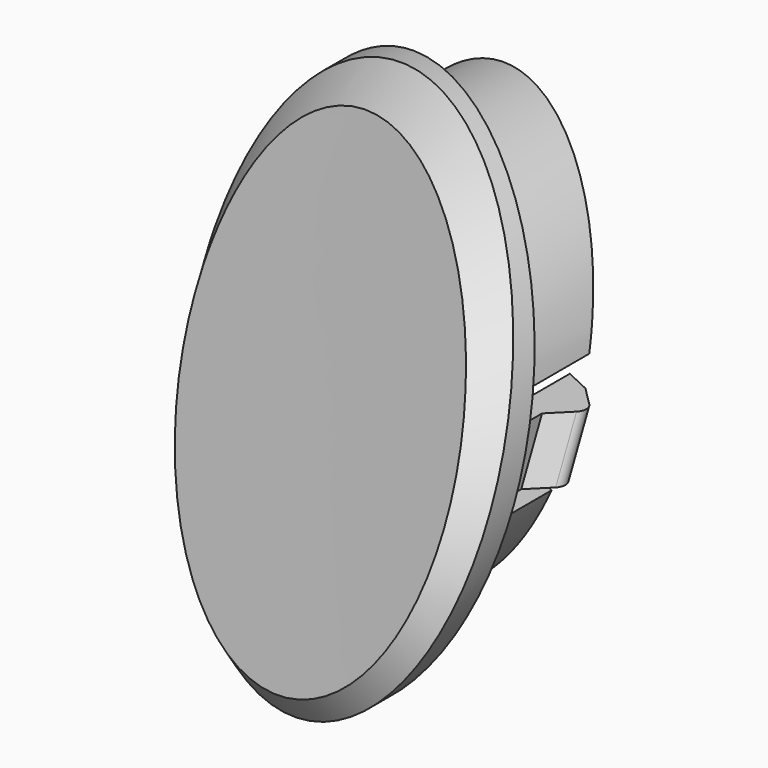
from build123d import *

# Parameters (mm, degrees)
SKETCH070_R          = 6.35
PAD004_DEPTH         = 85
PAD003_DEPTH         = 85
SKETCH058_R          = 5.55
POCKET001_DEPTH      = 0.001
POCKET001_DEPTH_BACK = 85.001
CHAMFER002_SIZE      = 1
POCKET005_DEPTH      = 0.001
POCKET005_DEPTH_BACK = 46.216689
SKETCH083_R          = 6.35
PAD006_DEPTH         = 85
PAD005_DEPTH         = 85
SKETCH071_R          = 5.55
POCKET002_DEPTH      = 0.001
POCKET002_DEPTH_BACK = 85.001
CHAMFER003_SIZE      = 1
POCKET006_DEPTH      = 0.001
POCKET006_DEPTH_BACK = 46.216689
POCKET007_DEPTH      = 0.001
POCKET007_DEPTH_BACK = 46.216689
SKETCH096_R          = 6.35
PAD008_DEPTH         = 85
PAD007_DEPTH         = 85
SKETCH084_R          = 5.55
POCKET003_DEPTH      = 0.001
POCKET003_DEPTH_BACK = 85.001
CHAMFER004_SIZE      = 1
POCKET008_DEPTH      = 0.001
POCKET008_DEPTH_BACK = 46.216689
POCKET009_DEPTH      = 0.001
POCKET009_DEPTH_BACK = 46.216689
SKETCH109_R          = 6.35
PAD010_DEPTH         = 85
PAD009_DEPTH         = 85
SKETCH097_R          = 5.55
POCKET004_DEPTH      = 0.001
POCKET004_DEPTH_BACK = 85.001
CHAMFER005_SIZE      = 1
POCKET010_DEPTH      = 0.001
POCKET010_DEPTH_BACK = 46.216689
SKETCH_R             = 8
PAD_DEPTH            = 85
CHAMFER_SIZE         = 1


with BuildPart() as obj1:
    # Sketch070 → Pad004 (new body)
    with BuildSketch(Plane.XZ):
        with Locations((43, 33.25)):
            Circle(SKETCH070_R)
    extrude(amount=PAD004_DEPTH)

    # Sketch063 → Pad003 (join)
    with BuildSketch(Plane.XZ):
        with BuildLine():
            Line((35.113144, 34.25), (50.886856, 34.25))
            ThreePointArc((50.886856, 32.25), (50.95, 33.25), (50.886856, 34.25))
            Line((44, 32.25), (50.886856, 32.25))
            Line((44, 32.25), (44, 25.363144))
            ThreePointArc((42, 25.363144), (43, 25.3), (44, 25.363144))
            Line((42, 32.25), (42, 25.363144))
            Line((35.113144, 32.25), (42, 32.25))
            ThreePointArc((35.113144, 34.25), (35.05, 33.25), (35.113144, 32.25))
        make_face()
    extrude(amount=PAD003_DEPTH)

    # Sketch058 → Pocket001 (cut, two sides)
    with BuildSketch(Plane.XZ) as pocket001_sk:
        with Locations((43, 33.25)):
            Circle(SKETCH058_R)
    extrude(amount=-POCKET001_DEPTH, mode=Mode.SUBTRACT)
    extrude(pocket001_sk.sketch, amount=POCKET001_DEPTH_BACK, mode=Mode.SUBTRACT)

    # Sketch062 → SubtractiveLoft002 section 0
    with BuildSketch(Plane.XY.offset(10)):
        with BuildLine():
            Line((-2, 2), (-2, -87))
            Line((-2, -87), (76.866516, -87))
            Line((76.866516, -38.996654), (76.866516, -87))
            Line((0, -70.790865), (76.866516, -38.996654))
            Line((0, -70.790865), (0, -59.815429))
            ThreePointArc((0, -59.815429), (18.580156, -58.2705), (36.65, -53.678146))
            Line((36.65, -53.678146), (36.65, -51.378146))
            Line((36.65, -51.378146), (35.967157, -50.695303))
            ThreePointArc((35.967157, -50.129618), (35.85, -50.41246), (35.967157, -50.695303))
            Line((35.967157, -50.129618), (36.65, -49.446775))
            Line((36.65, -49.446775), (49.35, -44.182166))
            Line((50.032843, -44.865009), (49.35, -44.182166))
            ThreePointArc((50.032843, -45.430695), (50.15, -45.147852), (50.032843, -44.865009))
            Line((49.35, -46.113537), (50.032843, -45.430695))
            Line((49.35, -48.413537), (49.35, -46.113537))
            ThreePointArc((49.35, -48.413537), (64.17388, -39.716528), (77.5, -28.862961))
            Line((77.5, 2), (77.5, -28.862961))
            Line((-2, 2), (77.5, 2))
        make_face()
    # Sketch059 → SubtractiveLoft002 section 1
    with BuildSketch(Plane.XY.offset(42)):
        with BuildLine():
            Line((-2, 2), (-2, -87))
            Line((-2, -87), (63.5, -87))
            Line((63.5, -87), (63.5, -27.765276))
            Line((0, -58.577105), (63.5, -27.765276))
            Line((0, -58.577105), (0, -45.815429))
            ThreePointArc((0, -45.815429), (18.663063, -44.031199), (36.65, -38.743146))
            Line((36.65, -38.743146), (36.65, -36.543146))
            Line((36.65, -36.543146), (35.967157, -35.860304))
            ThreePointArc((35.967157, -35.294618), (35.85, -35.577461), (35.967157, -35.860304))
            Line((35.967157, -35.294618), (36.65, -34.611775))
            Line((49.35, -28.429747), (36.65, -34.611775))
            Line((50.032843, -29.11259), (49.35, -28.429747))
            ThreePointArc((50.032843, -29.678275), (50.15, -29.395433), (50.032843, -29.11259))
            Line((49.35, -30.361118), (50.032843, -29.678275))
            Line((49.35, -30.361118), (49.35, -32.561118))
            ThreePointArc((49.35, -32.561118), (56.643736, -27.899157), (63.5, -22.614831))
            Line((63.5, 2), (63.5, -22.614831))
            Line((63.5, 2), (-2, 2))
        make_face()
    loft(mode=Mode.SUBTRACT)

    # Chamfer002
    chamfer002_edges = [obj1.edges().sort_by_distance(p)[0] for p in [
        (35.050008, -45.689757, 33.261359),
        (43.011121, -45.833884, 25.300008),
        (50.934027, -38.597846, 32.746296),
    ]]
    chamfer(chamfer002_edges, length=CHAMFER002_SIZE)

    # Sketch067 → Pocket005 (cut, two sides)
    with BuildSketch(Plane.XZ) as pocket005_sk:
        with BuildLine():
            Line((35.256454, 35.05), (50.743546, 35.05))
            ThreePointArc((35.256454, 35.05), (43, 25.3), (50.743546, 35.05))
        make_face()
    extrude(amount=-POCKET005_DEPTH, mode=Mode.SUBTRACT)
    extrude(pocket005_sk.sketch, amount=POCKET005_DEPTH_BACK, mode=Mode.SUBTRACT)


with BuildPart() as obj2:
    # Sketch083 → Pad006 (new body)
    with BuildSketch(Plane.XZ):
        with Locations((43, 33.25)):
            Circle(SKETCH083_R)
    extrude(amount=PAD006_DEPTH)

    # Sketch076 → Pad005 (join)
    with BuildSketch(Plane.XZ):
        with BuildLine():
            Line((35.113144, 34.25), (50.886856, 34.25))
            ThreePointArc((50.886856, 32.25), (50.95, 33.25), (50.886856, 34.25))
            Line((44, 32.25), (50.886856, 32.25))
            Line((44, 32.25), (44, 25.363144))
            ThreePointArc((42, 25.363144), (43, 25.3), (44, 25.363144))
            Line((42, 32.25), (42, 25.363144))
            Line((35.113144, 32.25), (42, 32.25))
            ThreePointArc((35.113144, 34.25), (35.05, 33.25), (35.113144, 32.25))
        make_face()
    extrude(amount=PAD005_DEPTH)

    # Sketch071 → Pocket002 (cut, two sides)
    with BuildSketch(Plane.XZ) as pocket002_sk:
        with Locations((43, 33.25)):
            Circle(SKETCH071_R)
    extrude(amount=-POCKET002_DEPTH, mode=Mode.SUBTRACT)
    extrude(pocket002_sk.sketch, amount=POCKET002_DEPTH_BACK, mode=Mode.SUBTRACT)

    # Sketch075 → SubtractiveLoft003 section 0
    with BuildSketch(Plane.XY.offset(10)):
        with BuildLine():
            Line((-2, 2), (-2, -87))
            Line((-2, -87), (76.866516, -87))
            Line((76.866516, -38.996654), (76.866516, -87))
            Line((0, -70.790865), (76.866516, -38.996654))
            Line((0, -70.790865), (0, -59.815429))
            ThreePointArc((0, -59.815429), (18.580156, -58.2705), (36.65, -53.678146))
            Line((36.65, -53.678146), (36.65, -51.378146))
            Line((36.65, -51.378146), (35.967157, -50.695303))
            ThreePointArc((35.967157, -50.129618), (35.85, -50.41246), (35.967157, -50.695303))
            Line((35.967157, -50.129618), (36.65, -49.446775))
            Line((36.65, -49.446775), (49.35, -44.182166))
            Line((50.032843, -44.865009), (49.35, -44.182166))
            ThreePointArc((50.032843, -45.430695), (50.15, -45.147852), (50.032843, -44.865009))
            Line((49.35, -46.113537), (50.032843, -45.430695))
            Line((49.35, -48.413537), (49.35, -46.113537))
            ThreePointArc((49.35, -48.413537), (64.17388, -39.716528), (77.5, -28.862961))
            Line((77.5, 2), (77.5, -28.862961))
            Line((-2, 2), (77.5, 2))
        make_face()
    # Sketch072 → SubtractiveLoft003 section 1
    with BuildSketch(Plane.XY.offset(42)):
        with BuildLine():
            Line((-2, 2), (-2, -87))
            Line((-2, -87), (63.5, -87))
            Line((63.5, -87), (63.5, -27.765276))
            Line((0, -58.577105), (63.5, -27.765276))
            Line((0, -58.577105), (0, -45.815429))
            ThreePointArc((0, -45.815429), (18.663063, -44.031199), (36.65, -38.743146))
            Line((36.65, -38.743146), (36.65, -36.543146))
            Line((36.65, -36.543146), (35.967157, -35.860304))
            ThreePointArc((35.967157, -35.294618), (35.85, -35.577461), (35.967157, -35.860304))
            Line((35.967157, -35.294618), (36.65, -34.611775))
            Line((49.35, -28.429747), (36.65, -34.611775))
            Line((50.032843, -29.11259), (49.35, -28.429747))
            ThreePointArc((50.032843, -29.678275), (50.15, -29.395433), (50.032843, -29.11259))
            Line((49.35, -30.361118), (50.032843, -29.678275))
            Line((49.35, -30.361118), (49.35, -32.561118))
            ThreePointArc((49.35, -32.561118), (56.643736, -27.899157), (63.5, -22.614831))
            Line((63.5, 2), (63.5, -22.614831))
            Line((63.5, 2), (-2, 2))
        make_face()
    loft(mode=Mode.SUBTRACT)

    # Chamfer003
    chamfer003_edges = [obj2.edges().sort_by_distance(p)[0] for p in [
        (35.050008, -45.689757, 33.261359),
        (43.011121, -45.833884, 25.300008),
        (50.934027, -38.597846, 32.746296),
    ]]
    chamfer(chamfer003_edges, length=CHAMFER003_SIZE)

    # Sketch077 → Pocket006 (cut, two sides)
    with BuildSketch(Plane.XZ) as pocket006_sk:
        with BuildLine():
            Line((35.113144, 34.25), (50.886856, 34.25))
            ThreePointArc((50.886856, 34.25), (43, 41.2), (35.113144, 34.25))
        make_face()
    extrude(amount=-POCKET006_DEPTH, mode=Mode.SUBTRACT)
    extrude(pocket006_sk.sketch, amount=POCKET006_DEPTH_BACK, mode=Mode.SUBTRACT)

    # Sketch079 → Pocket007 (cut, two sides)
    with BuildSketch(Plane.XZ) as pocket007_sk:
        with BuildLine():
            ThreePointArc((35.113144, 32.25), (43, 25.3), (50.886856, 32.25))
            ThreePointArc((50.886856, 32.25), (48.964583, 38.506068), (43, 41.2))
            Line((43, 32.25), (43, 41.2))
            Line((35.113144, 32.25), (43, 32.25))
        make_face()
    extrude(amount=-POCKET007_DEPTH, mode=Mode.SUBTRACT)
    extrude(pocket007_sk.sketch, amount=POCKET007_DEPTH_BACK, mode=Mode.SUBTRACT)


with BuildPart() as obj3:
    # Sketch096 → Pad008 (new body)
    with BuildSketch(Plane.XZ):
        with Locations((43, 33.25)):
            Circle(SKETCH096_R)
    extrude(amount=PAD008_DEPTH)

    # Sketch089 → Pad007 (join)
    with BuildSketch(Plane.XZ):
        with BuildLine():
            Line((35.113144, 34.25), (50.886856, 34.25))
            ThreePointArc((50.886856, 32.25), (50.95, 33.25), (50.886856, 34.25))
            Line((44, 32.25), (50.886856, 32.25))
            Line((44, 32.25), (44, 25.363144))
            ThreePointArc((42, 25.363144), (43, 25.3), (44, 25.363144))
            Line((42, 32.25), (42, 25.363144))
            Line((35.113144, 32.25), (42, 32.25))
            ThreePointArc((35.113144, 34.25), (35.05, 33.25), (35.113144, 32.25))
        make_face()
    extrude(amount=PAD007_DEPTH)

    # Sketch084 → Pocket003 (cut, two sides)
    with BuildSketch(Plane.XZ) as pocket003_sk:
        with Locations((43, 33.25)):
            Circle(SKETCH084_R)
    extrude(amount=-POCKET003_DEPTH, mode=Mode.SUBTRACT)
    extrude(pocket003_sk.sketch, amount=POCKET003_DEPTH_BACK, mode=Mode.SUBTRACT)

    # Sketch088 → SubtractiveLoft004 section 0
    with BuildSketch(Plane.XY.offset(10)):
        with BuildLine():
            Line((-2, 2), (-2, -87))
            Line((-2, -87), (76.866516, -87))
            Line((76.866516, -38.996654), (76.866516, -87))
            Line((0, -70.790865), (76.866516, -38.996654))
            Line((0, -70.790865), (0, -59.815429))
            ThreePointArc((0, -59.815429), (18.580156, -58.2705), (36.65, -53.678146))
            Line((36.65, -53.678146), (36.65, -51.378146))
            Line((36.65, -51.378146), (35.967157, -50.695303))
            ThreePointArc((35.967157, -50.129618), (35.85, -50.41246), (35.967157, -50.695303))
            Line((35.967157, -50.129618), (36.65, -49.446775))
            Line((36.65, -49.446775), (49.35, -44.182166))
            Line((50.032843, -44.865009), (49.35, -44.182166))
            ThreePointArc((50.032843, -45.430695), (50.15, -45.147852), (50.032843, -44.865009))
            Line((49.35, -46.113537), (50.032843, -45.430695))
            Line((49.35, -48.413537), (49.35, -46.113537))
            ThreePointArc((49.35, -48.413537), (64.17388, -39.716528), (77.5, -28.862961))
            Line((77.5, 2), (77.5, -28.862961))
            Line((-2, 2), (77.5, 2))
        make_face()
    # Sketch085 → SubtractiveLoft004 section 1
    with BuildSketch(Plane.XY.offset(42)):
        with BuildLine():
            Line((-2, 2), (-2, -87))
            Line((-2, -87), (63.5, -87))
            Line((63.5, -87), (63.5, -27.765276))
            Line((0, -58.577105), (63.5, -27.765276))
            Line((0, -58.577105), (0, -45.815429))
            ThreePointArc((0, -45.815429), (18.663063, -44.031199), (36.65, -38.743146))
            Line((36.65, -38.743146), (36.65, -36.543146))
            Line((36.65, -36.543146), (35.967157, -35.860304))
            ThreePointArc((35.967157, -35.294618), (35.85, -35.577461), (35.967157, -35.860304))
            Line((35.967157, -35.294618), (36.65, -34.611775))
            Line((49.35, -28.429747), (36.65, -34.611775))
            Line((50.032843, -29.11259), (49.35, -28.429747))
            ThreePointArc((50.032843, -29.678275), (50.15, -29.395433), (50.032843, -29.11259))
            Line((49.35, -30.361118), (50.032843, -29.678275))
            Line((49.35, -30.361118), (49.35, -32.561118))
            ThreePointArc((49.35, -32.561118), (56.643736, -27.899157), (63.5, -22.614831))
            Line((63.5, 2), (63.5, -22.614831))
            Line((63.5, 2), (-2, 2))
        make_face()
    loft(mode=Mode.SUBTRACT)

    # Chamfer004
    chamfer004_edges = [obj3.edges().sort_by_distance(p)[0] for p in [
        (35.050008, -45.689757, 33.261359),
        (43.011121, -45.833884, 25.300008),
        (50.934027, -38.597846, 32.746296),
    ]]
    chamfer(chamfer004_edges, length=CHAMFER004_SIZE)

    # Sketch094 → Pocket008 (cut, two sides)
    with BuildSketch(Plane.XZ) as pocket008_sk:
        with BuildLine():
            Line((35.113144, 34.25), (50.886856, 34.25))
            ThreePointArc((50.886856, 34.25), (43, 41.2), (35.113144, 34.25))
        make_face()
    extrude(amount=-POCKET008_DEPTH, mode=Mode.SUBTRACT)
    extrude(pocket008_sk.sketch, amount=POCKET008_DEPTH_BACK, mode=Mode.SUBTRACT)

    # Sketch091 → Pocket009 (cut, two sides)
    with BuildSketch(Plane.XZ) as pocket009_sk:
        with BuildLine():
            ThreePointArc((35.113144, 32.25), (43, 25.3), (50.886856, 32.25))
            Line((43, 32.25), (50.886856, 32.25))
            Line((43, 32.25), (43, 41.2))
            ThreePointArc((43, 41.2), (37.035417, 38.506068), (35.113144, 32.25))
        make_face()
    extrude(amount=-POCKET009_DEPTH, mode=Mode.SUBTRACT)
    extrude(pocket009_sk.sketch, amount=POCKET009_DEPTH_BACK, mode=Mode.SUBTRACT)


with BuildPart() as obj4:
    # Sketch109 → Pad010 (new body)
    with BuildSketch(Plane.XZ):
        with Locations((43, 33.25)):
            Circle(SKETCH109_R)
    extrude(amount=PAD010_DEPTH)

    # Sketch102 → Pad009 (join)
    with BuildSketch(Plane.XZ):
        with BuildLine():
            Line((35.113144, 34.25), (50.886856, 34.25))
            ThreePointArc((50.886856, 32.25), (50.95, 33.25), (50.886856, 34.25))
            Line((44, 32.25), (50.886856, 32.25))
            Line((44, 32.25), (44, 25.363144))
            ThreePointArc((42, 25.363144), (43, 25.3), (44, 25.363144))
            Line((42, 32.25), (42, 25.363144))
            Line((35.113144, 32.25), (42, 32.25))
            ThreePointArc((35.113144, 34.25), (35.05, 33.25), (35.113144, 32.25))
        make_face()
    extrude(amount=PAD009_DEPTH)

    # Sketch097 → Pocket004 (cut, two sides)
    with BuildSketch(Plane.XZ) as pocket004_sk:
        with Locations((43, 33.25)):
            Circle(SKETCH097_R)
    extrude(amount=-POCKET004_DEPTH, mode=Mode.SUBTRACT)
    extrude(pocket004_sk.sketch, amount=POCKET004_DEPTH_BACK, mode=Mode.SUBTRACT)

    # Sketch101 → SubtractiveLoft005 section 0
    with BuildSketch(Plane.XY.offset(10)):
        with BuildLine():
            Line((-2, 2), (-2, -87))
            Line((-2, -87), (76.866516, -87))
            Line((76.866516, -38.996654), (76.866516, -87))
            Line((0, -70.790865), (76.866516, -38.996654))
            Line((0, -70.790865), (0, -59.815429))
            ThreePointArc((0, -59.815429), (18.580156, -58.2705), (36.65, -53.678146))
            Line((36.65, -53.678146), (36.65, -51.378146))
            Line((36.65, -51.378146), (35.967157, -50.695303))
            ThreePointArc((35.967157, -50.129618), (35.85, -50.41246), (35.967157, -50.695303))
            Line((35.967157, -50.129618), (36.65, -49.446775))
            Line((36.65, -49.446775), (49.35, -44.182166))
            Line((50.032843, -44.865009), (49.35, -44.182166))
            ThreePointArc((50.032843, -45.430695), (50.15, -45.147852), (50.032843, -44.865009))
            Line((49.35, -46.113537), (50.032843, -45.430695))
            Line((49.35, -48.413537), (49.35, -46.113537))
            ThreePointArc((49.35, -48.413537), (64.17388, -39.716528), (77.5, -28.862961))
            Line((77.5, 2), (77.5, -28.862961))
            Line((-2, 2), (77.5, 2))
        make_face()
    # Sketch098 → SubtractiveLoft005 section 1
    with BuildSketch(Plane.XY.offset(42)):
        with BuildLine():
            Line((-2, 2), (-2, -87))
            Line((-2, -87), (63.5, -87))
            Line((63.5, -87), (63.5, -27.765276))
            Line((0, -58.577105), (63.5, -27.765276))
            Line((0, -58.577105), (0, -45.815429))
            ThreePointArc((0, -45.815429), (18.663063, -44.031199), (36.65, -38.743146))
            Line((36.65, -38.743146), (36.65, -36.543146))
            Line((36.65, -36.543146), (35.967157, -35.860304))
            ThreePointArc((35.967157, -35.294618), (35.85, -35.577461), (35.967157, -35.860304))
            Line((35.967157, -35.294618), (36.65, -34.611775))
            Line((49.35, -28.429747), (36.65, -34.611775))
            Line((50.032843, -29.11259), (49.35, -28.429747))
            ThreePointArc((50.032843, -29.678275), (50.15, -29.395433), (50.032843, -29.11259))
            Line((49.35, -30.361118), (50.032843, -29.678275))
            Line((49.35, -30.361118), (49.35, -32.561118))
            ThreePointArc((49.35, -32.561118), (56.643736, -27.899157), (63.5, -22.614831))
            Line((63.5, 2), (63.5, -22.614831))
            Line((63.5, 2), (-2, 2))
        make_face()
    loft(mode=Mode.SUBTRACT)

    # Chamfer005
    chamfer005_edges = [obj4.edges().sort_by_distance(p)[0] for p in [
        (35.050008, -45.689757, 33.261359),
        (43.011121, -45.833884, 25.300008),
        (50.934027, -38.597846, 32.746296),
    ]]
    chamfer(chamfer005_edges, length=CHAMFER005_SIZE)

    # Sketch108 → Pocket010 (cut, two sides)
    with BuildSketch(Plane.XZ) as pocket010_sk:
        with BuildLine():
            Line((35.256454, 31.45), (50.743546, 31.45))
            ThreePointArc((50.743546, 31.45), (43, 41.2), (35.256454, 31.45))
        make_face()
    extrude(amount=-POCKET010_DEPTH, mode=Mode.SUBTRACT)
    extrude(pocket010_sk.sketch, amount=POCKET010_DEPTH_BACK, mode=Mode.SUBTRACT)


with BuildPart() as obj5:
    # Sketch → Pad (new body)
    with BuildSketch(Plane.XZ):
        with Locations((43, 33.25)):
            Circle(SKETCH_R)
    extrude(amount=PAD_DEPTH)

    # Sketch002 (on DatumPlane) → SubtractiveLoft section 0
    with BuildSketch(Plane.XY.offset(10)):
        with BuildLine():
            ThreePointArc((0, -59.815429), (41.32158, -51.951833), (76.866516, -29.460354))
            Line((76.866516, -29.460354), (76.866516, 2))
            Line((-2, 2), (76.866516, 2))
            Line((-2, 2), (-2, -87))
            Line((-2, -87), (76.866516, -87))
            Line((76.866516, -38.996654), (76.866516, -87))
            Line((0, -70.790865), (76.866516, -38.996654))
            Line((0, -59.815429), (0, -70.790865))
        make_face()
    # Sketch003 (on DatumPlane) → SubtractiveLoft section 1
    with BuildSketch(Plane.XY.offset(42)):
        with BuildLine():
            ThreePointArc((0, -45.815429), (33.358563, -39.994749), (62.774597, -23.220633))
            Line((62.774597, -23.220633), (62.774597, 2))
            Line((62.774597, 2), (-2, 2))
            Line((-2, 2), (-2, -87))
            Line((-2, -87), (62.774597, -87))
            Line((62.774597, -87), (62.774597, -28.117261))
            Line((0, -58.577105), (62.774597, -28.117261))
            Line((0, -58.577105), (0, -45.815429))
        make_face()
    loft(mode=Mode.SUBTRACT)

    # Chamfer
    chamfer_edges = [obj5.edges().sort_by_distance(p)[0] for p in [
        (35.592754, -44.029805, 36.272037),
        (50.443905, -40.050661, 30.319424),
    ]]
    chamfer(chamfer_edges, length=CHAMFER_SIZE)

    # Boolean: union obj1
    add(obj1.part)

    # Boolean001: union obj2
    add(obj2.part)

    # Boolean002: union obj3
    add(obj3.part)

    # Boolean003: union obj4
    add(obj4.part)


with BuildPart() as obj6:
    # Part__Mirroring: instance of obj5
    add(obj5.part.mirror(Plane(origin=(0, 0, 0), x_dir=(0, -1, 0), z_dir=(1, 0, 0))))


solid = obj6.part
